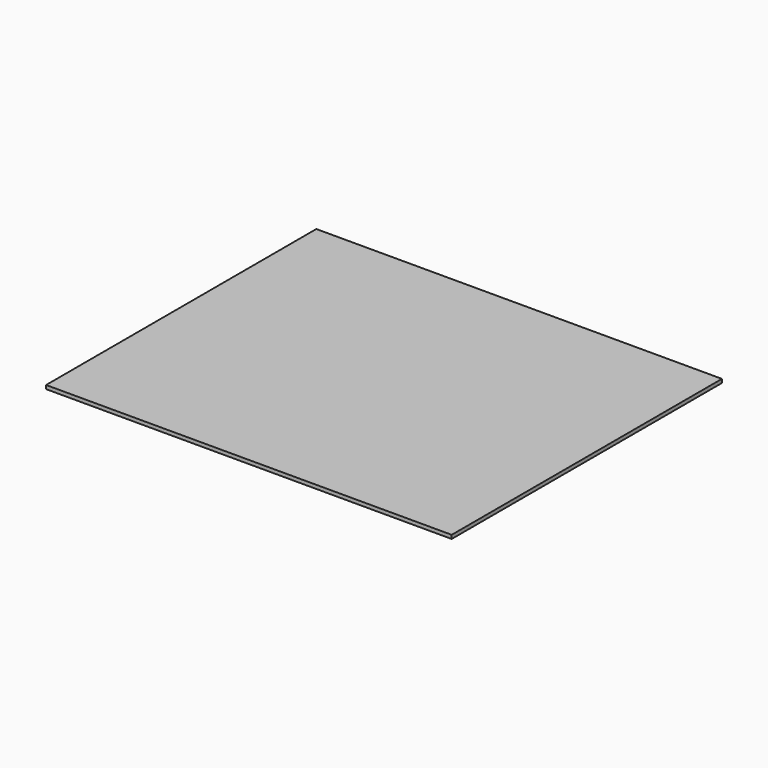
from build123d import *

# Parameters (mm, degrees)
SKETCH_W  = 702.8
SKETCH_H  = 585.3
PAD_DEPTH = 6.35


with BuildPart() as part:
    # Sketch → Pad (new body)
    with BuildSketch(Plane.XY):
        with Locations((351.4, 292.65)):
            Rectangle(SKETCH_W, SKETCH_H)
    extrude(amount=PAD_DEPTH)


solid = part.part
